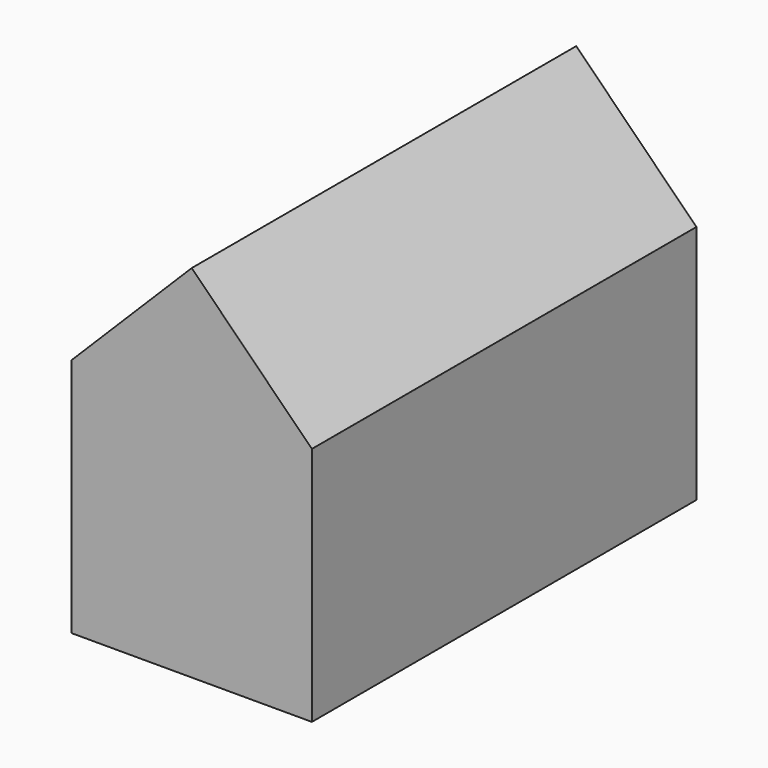
from build123d import *

# Parameters (mm, degrees)
BOX001_W               = 7.07
BOX001_H               = 20
BOX001_DEPTH           = 7.07
BOX001_PLACEMENT_ANGLE = 45
BOX_W                  = 10
BOX_H                  = 20
BOX_DEPTH              = 10


with BuildPart() as cubo001:
    # Box001 → Box001 (new body)
    with BuildSketch(Plane.XY):
        with Locations((3.535, 10)):
            Rectangle(BOX001_W, BOX001_H)
    extrude(amount=BOX001_DEPTH)


with BuildPart() as cubo001_1:
    # Box001 placement: moved
    add(cubo001.part.moved(Location((-5, -10, 10))).rotate(Axis((-5, -10, 10), (0, 1, 0)), BOX001_PLACEMENT_ANGLE))


with BuildPart() as fusion:
    # Box → Box (new body)
    with BuildSketch(Plane(origin=(-5, -10, 0), x_dir=(1, 0, 0), z_dir=(0, 0, 1))):
        with Locations((5, 10)):
            Rectangle(BOX_W, BOX_H)
    extrude(amount=BOX_DEPTH)

    # Fusion: union Cubo001
    add(cubo001_1.part)


solid = fusion.part
